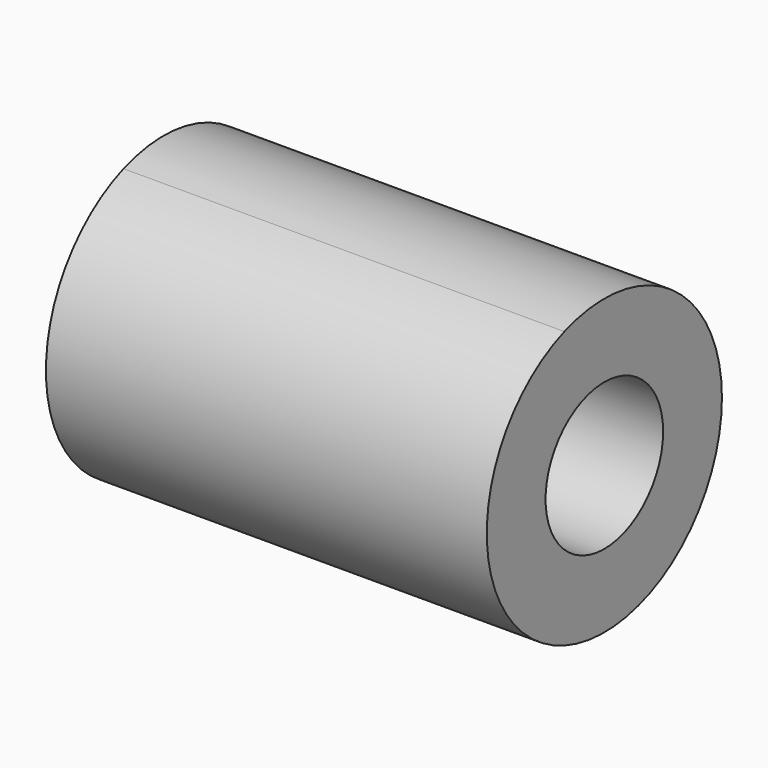
from build123d import *

# Parameters (mm, degrees)
F0_R     = 12.7
F1_DEPTH = 76.2


with BuildPart() as f1:
    # F0 (on Right) → F1 (new body)
    with BuildSketch(Plane.YZ):
        with BuildLine():
            ThreePointArc((-8.638555, 23.885882), (-14.590077, -20.791576), (25.4, 0))
            ThreePointArc((25.4, 0), (14.590077, 20.791576), (-8.638555, 23.885882))
        make_face()
        Circle(F0_R, mode=Mode.SUBTRACT)
    extrude(amount=F1_DEPTH)


solid = f1.part
